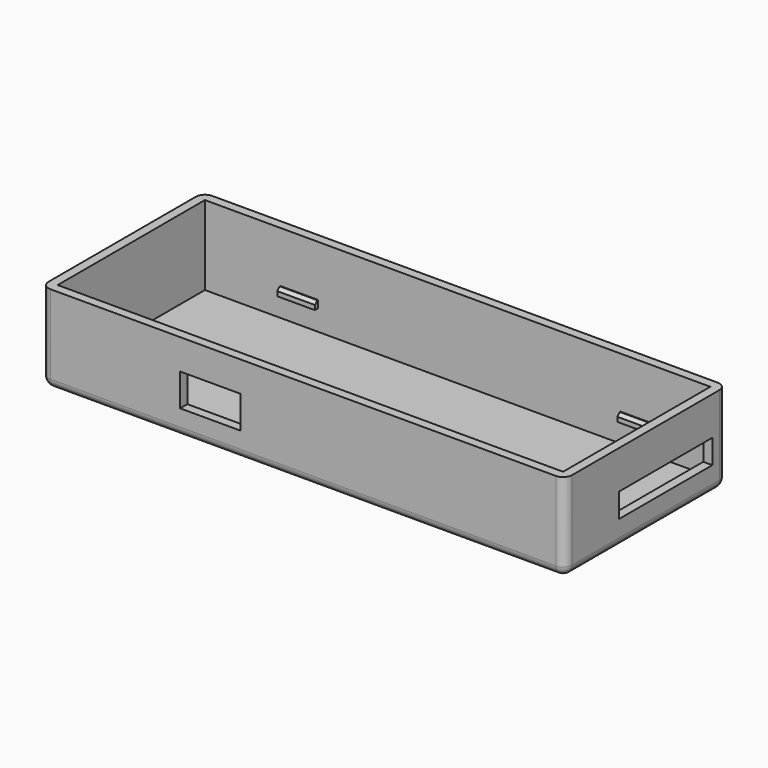
from build123d import *

# Parameters (mm, degrees)
BOX_W           = 67
BOX_H           = 24.4
BOX_DEPTH       = 10.5
THICKNESS_T     = 1.2
SKETCH_W        = 8
SKETCH_H        = 4.3
POCKET_DEPTH    = 5
SKETCH001_W     = 15.5
SKETCH001_H     = 3.2
POCKET001_DEPTH = 5
SKETCH002_W     = 5
SKETCH002_H     = 1
PAD_DEPTH       = 0.5
SKETCH003_W     = 5
SKETCH003_H     = 1
PAD001_DEPTH    = 0.5
CHAMFER_SIZE    = 0.4
CHAMFER001_SIZE = 0.4
CHAMFER002_SIZE = 0.4
CHAMFER003_SIZE = 0.4


with BuildPart() as part:
    # Box → Box (new body)
    with BuildSketch(Plane.XY):
        with Locations((33.5, 12.2)):
            Rectangle(BOX_W, BOX_H)
    extrude(amount=BOX_DEPTH)

    # Thickness
    thickness_openings = [part.faces().sort_by_distance(p)[0] for p in [
        (33.5, 12.2, 10.5),
    ]]
    offset(amount=THICKNESS_T, openings=thickness_openings)

    # Sketch (on Face14 of Thickness) → Pocket (cut)
    with BuildSketch(Plane.XZ.offset(1.2)):
        with Locations((21.188957, 4.340102)):
            Rectangle(SKETCH_W, SKETCH_H)
    extrude(amount=-POCKET_DEPTH, mode=Mode.SUBTRACT)

    # Sketch001 (on Face17 of Pocket) → Pocket001 (cut)
    with BuildSketch(Plane.YZ.offset(68.2)):
        with Locations((15.481014, 3.816542)):
            Rectangle(SKETCH001_W, SKETCH001_H)
    extrude(amount=-POCKET001_DEPTH, mode=Mode.SUBTRACT)

    # Sketch002 (on Face2 of Pocket001) → Pad (join)
    with BuildSketch(Plane.XZ):
        with Locations((7.5565, 3.152776)):
            Rectangle(SKETCH002_W, SKETCH002_H)
        with Locations((62.523926, 3.21387)):
            Rectangle(SKETCH002_W, SKETCH002_H)
    extrude(amount=-PAD_DEPTH)

    # Sketch003 (on Face5 of Pad) → Pad001 (join)
    with BuildSketch(Plane(origin=(0, 24.4, 0), x_dir=(-1, 0, 0), z_dir=(0, 1, 0))):
        with Locations((-57.564125, 3.224103)):
            Rectangle(SKETCH003_W, SKETCH003_H)
        with Locations((-12.49075, 3.224103)):
            Rectangle(SKETCH003_W, SKETCH003_H)
    extrude(amount=-PAD001_DEPTH)

    # Chamfer
    chamfer_edges = [part.edges().sort_by_distance(p)[0] for p in [
        (12.49075, 23.9, 3.724103),
    ]]
    chamfer(chamfer_edges, length=CHAMFER_SIZE)

    # Chamfer001
    chamfer001_edges = [part.edges().sort_by_distance(p)[0] for p in [
        (57.564125, 23.9, 3.724103),
    ]]
    chamfer(chamfer001_edges, length=CHAMFER001_SIZE)

    # Chamfer002
    chamfer002_edges = [part.edges().sort_by_distance(p)[0] for p in [
        (62.523926, 0.5, 3.71387),
    ]]
    chamfer(chamfer002_edges, length=CHAMFER002_SIZE)

    # Chamfer003
    chamfer003_edges = [part.edges().sort_by_distance(p)[0] for p in [
        (7.5565, 0.5, 3.652776),
    ]]
    chamfer(chamfer003_edges, length=CHAMFER003_SIZE)


solid = part.part
